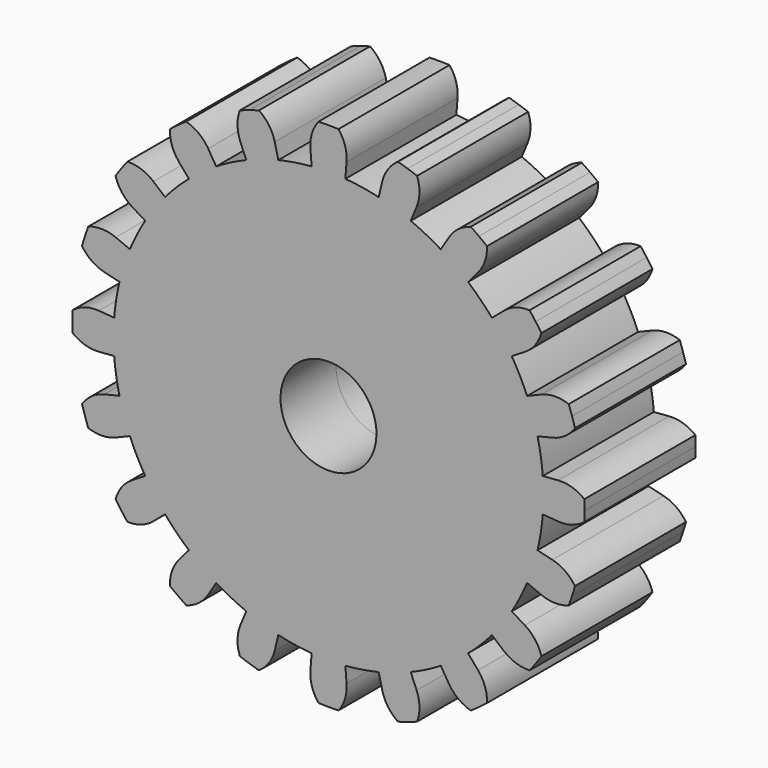
from build123d import *

# Parameters (mm, degrees)
F1_DEPTH = 2.8702


with BuildPart() as f1:
    # F0 (on Front) → F1 (new body, symmetric)
    with BuildSketch(Plane.XZ):
        with BuildLine():
            ThreePointArc((10.5918, 0), (10.5897583297, 0.2079561438), (10.5836341061, 0.4158321166))
            ThreePointArc((10.5836341061, 0.4158321166), (10.0710210825, 0.6845879651), (9.4956376038, 0.7473228868))
            Line((9.4956376038, 0.7473228868), (8.8625950969, 0.697501361))
            ThreePointArc((8.8625950969, 0.697501361), (8.8283785823, 1.0449074634), (8.7805493479, 1.3907023942))
            Line((8.7805493479, 1.3907023942), (1.9599440509, 0.3104246416))
            ThreePointArc((1.9599440509, 0.3104246416), (1.9782578341, 0.1556922681), (1.984375, 0))
            Line((1.984375, 0), (10.5918, 0))
        make_face()
        with BuildLine():
            ThreePointArc((10.5836341061, -0.4158321166), (10.5897583297, -0.2079561438), (10.5918, 0))
            Line((10.5918, 0), (1.984375, 0))
            ThreePointArc((1.984375, 0), (-1.9782578341, -0.1556922681), (1.9599440509, 0.3104246416))
            Line((1.9599440509, 0.3104246416), (8.7805493479, 1.3907023942))
            ThreePointArc((8.7805493479, 1.3907023942), (8.7191811428, 1.7343529627), (8.6443685923, 2.0753292847))
            Line((8.6443685923, 2.0753292847), (9.2618234918, 2.2235670907))
            ThreePointArc((9.2618234918, 2.2235670907), (9.7896595417, 2.46103482), (10.1941333735, 2.8750429569))
            ThreePointArc((10.1941333735, 2.8750429569), (10.135720648, 3.0746372445), (10.0734004093, 3.273046201))
            ThreePointArc((10.0734004093, 3.273046201), (10.007196683, 3.4701933359), (9.9371349918, 3.6660026452))
            ThreePointArc((9.9371349918, 3.6660026452), (9.3665609109, 3.7631985104), (8.7999525472, 3.6450596933))
            Line((8.7999525472, 3.6450596933), (8.213289044, 3.4020557137))
            ThreePointArc((8.213289044, 3.4020557137), (8.0733928153, 3.7218850667), (7.921048, 4.0359755427))
            ThreePointArc((7.921048, 4.0359755427), (7.7564895029, 4.3438428369), (7.5799710611, 4.6450122403))
            Line((7.5799710611, 4.6450122403), (8.1213975655, 4.9767988289))
            ThreePointArc((8.1213975655, 4.9767988289), (8.5500179163, 5.3657543699), (8.8067598396, 5.8844887941))
            ThreePointArc((8.8067598396, 5.8844887941), (8.6895280095, 6.0562637171), (8.568946201, 6.2257038352))
            ThreePointArc((8.568946201, 6.2257038352), (8.4450609006, 6.392743826), (8.3179198685, 6.5573192923))
            ThreePointArc((8.3179198685, 6.5573192923), (7.7452364967, 6.4734409658), (7.2428668223, 6.1859926603))
            Line((7.2428668223, 6.1859926603), (6.7600090342, 5.7735931497))
            ThreePointArc((6.7600090342, 5.7735931497), (6.5281271089, 6.0345386278), (6.2861792847, 6.2861792847))
            ThreePointArc((6.2861792847, 6.2861792847), (6.0345386278, 6.5281271089), (5.7735931497, 6.7600090342))
            Line((5.7735931497, 6.7600090342), (6.1859926603, 7.2428668223))
            ThreePointArc((6.1859926603, 7.2428668223), (6.4734409658, 7.7452364967), (6.5573192923, 8.3179198685))
            ThreePointArc((6.5573192923, 8.3179198685), (6.392743826, 8.4450609006), (6.2257038352, 8.568946201))
            ThreePointArc((6.2257038352, 8.568946201), (6.0562637171, 8.6895280095), (5.8844887941, 8.8067598396))
            ThreePointArc((5.8844887941, 8.8067598396), (5.3657543699, 8.5500179163), (4.9767988289, 8.1213975655))
            Line((4.9767988289, 8.1213975655), (4.6450122403, 7.5799710611))
            ThreePointArc((4.6450122403, 7.5799710611), (4.3438428369, 7.7564895029), (4.0359755427, 7.921048))
            ThreePointArc((4.0359755427, 7.921048), (3.7218850667, 8.0733928153), (3.4020557137, 8.213289044))
            Line((3.4020557137, 8.213289044), (3.6450596933, 8.7999525472))
            ThreePointArc((3.6450596933, 8.7999525472), (3.7631985104, 9.3665609109), (3.6660026452, 9.9371349918))
            ThreePointArc((3.6660026452, 9.9371349918), (3.4701933359, 10.007196683), (3.273046201, 10.0734004093))
            ThreePointArc((3.273046201, 10.0734004093), (3.0746372445, 10.135720648), (2.8750429569, 10.1941333735))
            ThreePointArc((2.8750429569, 10.1941333735), (2.46103482, 9.7896595417), (2.2235670907, 9.2618234918))
            Line((2.2235670907, 9.2618234918), (2.0753292847, 8.6443685923))
            ThreePointArc((2.0753292847, 8.6443685923), (1.7343529627, 8.7191811428), (1.3907023942, 8.7805493479))
            ThreePointArc((1.3907023942, 8.7805493479), (1.0449074634, 8.8283785823), (0.697501361, 8.8625950969))
            Line((0.697501361, 8.8625950969), (0.7473228868, 9.4956376038))
            ThreePointArc((0.7473228868, 9.4956376038), (0.6845879651, 10.0710210825), (0.4158321166, 10.5836341061))
            ThreePointArc((0.4158321166, 10.5836341061), (0.2079561438, 10.5897583297), (0, 10.5918))
            ThreePointArc((0, 10.5918), (-0.2079561438, 10.5897583297), (-0.4158321166, 10.5836341061))
            ThreePointArc((-0.4158321166, 10.5836341061), (-0.6845879651, 10.0710210825), (-0.7473228868, 9.4956376038))
            Line((-0.7473228868, 9.4956376038), (-0.697501361, 8.8625950969))
            ThreePointArc((-0.697501361, 8.8625950969), (-1.0449074634, 8.8283785823), (-1.3907023942, 8.7805493479))
            ThreePointArc((-1.3907023942, 8.7805493479), (-1.7343529627, 8.7191811428), (-2.0753292847, 8.6443685923))
            Line((-2.0753292847, 8.6443685923), (-2.2235670907, 9.2618234918))
            ThreePointArc((-2.2235670907, 9.2618234918), (-2.46103482, 9.7896595417), (-2.8750429569, 10.1941333735))
            ThreePointArc((-2.8750429569, 10.1941333735), (-3.0746372445, 10.135720648), (-3.273046201, 10.0734004093))
            ThreePointArc((-3.273046201, 10.0734004093), (-3.4701933359, 10.007196683), (-3.6660026452, 9.9371349918))
            ThreePointArc((-3.6660026452, 9.9371349918), (-3.7631985104, 9.3665609109), (-3.6450596933, 8.7999525472))
            Line((-3.6450596933, 8.7999525472), (-3.4020557137, 8.213289044))
            ThreePointArc((-3.4020557137, 8.213289044), (-3.7218850667, 8.0733928153), (-4.0359755427, 7.921048))
            ThreePointArc((-4.0359755427, 7.921048), (-4.3438428369, 7.7564895029), (-4.6450122403, 7.5799710611))
            Line((-4.6450122403, 7.5799710611), (-4.9767988289, 8.1213975655))
            ThreePointArc((-4.9767988289, 8.1213975655), (-5.3657543699, 8.5500179163), (-5.8844887941, 8.8067598396))
            ThreePointArc((-5.8844887941, 8.8067598396), (-6.0562637171, 8.6895280095), (-6.2257038352, 8.568946201))
            ThreePointArc((-6.2257038352, 8.568946201), (-6.392743826, 8.4450609006), (-6.5573192923, 8.3179198685))
            ThreePointArc((-6.5573192923, 8.3179198685), (-6.4734409658, 7.7452364967), (-6.1859926603, 7.2428668223))
            Line((-6.1859926603, 7.2428668223), (-5.7735931497, 6.7600090342))
            ThreePointArc((-5.7735931497, 6.7600090342), (-6.0345386278, 6.5281271089), (-6.2861792847, 6.2861792847))
            ThreePointArc((-6.2861792847, 6.2861792847), (-6.5281271089, 6.0345386278), (-6.7600090342, 5.7735931497))
            Line((-6.7600090342, 5.7735931497), (-7.2428668223, 6.1859926603))
            ThreePointArc((-7.2428668223, 6.1859926603), (-7.7452364967, 6.4734409658), (-8.3179198685, 6.5573192923))
            ThreePointArc((-8.3179198685, 6.5573192923), (-8.4450609006, 6.392743826), (-8.568946201, 6.2257038352))
            ThreePointArc((-8.568946201, 6.2257038352), (-8.6895280095, 6.0562637171), (-8.8067598396, 5.8844887941))
            ThreePointArc((-8.8067598396, 5.8844887941), (-8.5500179163, 5.3657543699), (-8.1213975655, 4.9767988289))
            Line((-8.1213975655, 4.9767988289), (-7.5799710611, 4.6450122403))
            ThreePointArc((-7.5799710611, 4.6450122403), (-7.7564895029, 4.3438428369), (-7.921048, 4.0359755427))
            ThreePointArc((-7.921048, 4.0359755427), (-8.0733928153, 3.7218850667), (-8.213289044, 3.4020557137))
            Line((-8.213289044, 3.4020557137), (-8.7999525472, 3.6450596933))
            ThreePointArc((-8.7999525472, 3.6450596933), (-9.3665609109, 3.7631985104), (-9.9371349918, 3.6660026452))
            ThreePointArc((-9.9371349918, 3.6660026452), (-10.007196683, 3.4701933359), (-10.0734004093, 3.273046201))
            ThreePointArc((-10.0734004093, 3.273046201), (-10.135720648, 3.0746372445), (-10.1941333735, 2.8750429569))
            ThreePointArc((-10.1941333735, 2.8750429569), (-9.7896595417, 2.46103482), (-9.2618234918, 2.2235670907))
            Line((-9.2618234918, 2.2235670907), (-8.6443685923, 2.0753292847))
            ThreePointArc((-8.6443685923, 2.0753292847), (-8.7191811428, 1.7343529627), (-8.7805493479, 1.3907023942))
            ThreePointArc((-8.7805493479, 1.3907023942), (-8.8283785823, 1.0449074634), (-8.8625950969, 0.697501361))
            Line((-8.8625950969, 0.697501361), (-9.4956376038, 0.7473228868))
            ThreePointArc((-9.4956376038, 0.7473228868), (-10.0710210825, 0.6845879651), (-10.5836341061, 0.4158321166))
            ThreePointArc((-10.5836341061, 0.4158321166), (-10.5897583297, 0.2079561438), (-10.5918, 0))
            ThreePointArc((-10.5918, 0), (-10.5897583297, -0.2079561438), (-10.5836341061, -0.4158321166))
            ThreePointArc((-10.5836341061, -0.4158321166), (-10.0710210825, -0.6845879651), (-9.4956376038, -0.7473228868))
            Line((-9.4956376038, -0.7473228868), (-8.8625950969, -0.697501361))
            ThreePointArc((-8.8625950969, -0.697501361), (-8.8283785823, -1.0449074634), (-8.7805493479, -1.3907023942))
            ThreePointArc((-8.7805493479, -1.3907023942), (-8.7191811428, -1.7343529627), (-8.6443685923, -2.0753292847))
            Line((-8.6443685923, -2.0753292847), (-9.2618234918, -2.2235670907))
            ThreePointArc((-9.2618234918, -2.2235670907), (-9.7896595417, -2.46103482), (-10.1941333735, -2.8750429569))
            ThreePointArc((-10.1941333735, -2.8750429569), (-10.135720648, -3.0746372445), (-10.0734004093, -3.273046201))
            ThreePointArc((-10.0734004093, -3.273046201), (-10.007196683, -3.4701933359), (-9.9371349918, -3.6660026452))
            ThreePointArc((-9.9371349918, -3.6660026452), (-9.3665609109, -3.7631985104), (-8.7999525472, -3.6450596933))
            Line((-8.7999525472, -3.6450596933), (-8.213289044, -3.4020557137))
            ThreePointArc((-8.213289044, -3.4020557137), (-8.0733928153, -3.7218850667), (-7.921048, -4.0359755427))
            ThreePointArc((-7.921048, -4.0359755427), (-7.7564895029, -4.3438428369), (-7.5799710611, -4.6450122403))
            Line((-7.5799710611, -4.6450122403), (-8.1213975655, -4.9767988289))
            ThreePointArc((-8.1213975655, -4.9767988289), (-8.5500179163, -5.3657543699), (-8.8067598396, -5.8844887941))
            ThreePointArc((-8.8067598396, -5.8844887941), (-8.6895280095, -6.0562637171), (-8.568946201, -6.2257038352))
            ThreePointArc((-8.568946201, -6.2257038352), (-8.4450609006, -6.392743826), (-8.3179198685, -6.5573192923))
            ThreePointArc((-8.3179198685, -6.5573192923), (-7.7452364967, -6.4734409658), (-7.2428668223, -6.1859926603))
            Line((-7.2428668223, -6.1859926603), (-6.7600090342, -5.7735931497))
            ThreePointArc((-6.7600090342, -5.7735931497), (-6.5281271089, -6.0345386278), (-6.2861792847, -6.2861792847))
            ThreePointArc((-6.2861792847, -6.2861792847), (-6.0345386278, -6.5281271089), (-5.7735931497, -6.7600090342))
            Line((-5.7735931497, -6.7600090342), (-6.1859926603, -7.2428668223))
            ThreePointArc((-6.1859926603, -7.2428668223), (-6.4734409658, -7.7452364967), (-6.5573192923, -8.3179198685))
            ThreePointArc((-6.5573192923, -8.3179198685), (-6.392743826, -8.4450609006), (-6.2257038352, -8.568946201))
            ThreePointArc((-6.2257038352, -8.568946201), (-6.0562637171, -8.6895280095), (-5.8844887941, -8.8067598396))
            ThreePointArc((-5.8844887941, -8.8067598396), (-5.3657543699, -8.5500179163), (-4.9767988289, -8.1213975655))
            Line((-4.9767988289, -8.1213975655), (-4.6450122403, -7.5799710611))
            ThreePointArc((-4.6450122403, -7.5799710611), (-4.3438428369, -7.7564895029), (-4.0359755427, -7.921048))
            ThreePointArc((-4.0359755427, -7.921048), (-3.7218850667, -8.0733928153), (-3.4020557137, -8.213289044))
            Line((-3.4020557137, -8.213289044), (-3.6450596933, -8.7999525472))
            ThreePointArc((-3.6450596933, -8.7999525472), (-3.7631985104, -9.3665609109), (-3.6660026452, -9.9371349918))
            ThreePointArc((-3.6660026452, -9.9371349918), (-3.4701933359, -10.007196683), (-3.273046201, -10.0734004093))
            ThreePointArc((-3.273046201, -10.0734004093), (-3.0746372445, -10.135720648), (-2.8750429569, -10.1941333735))
            ThreePointArc((-2.8750429569, -10.1941333735), (-2.46103482, -9.7896595417), (-2.2235670907, -9.2618234918))
            Line((-2.2235670907, -9.2618234918), (-2.0753292847, -8.6443685923))
            ThreePointArc((-2.0753292847, -8.6443685923), (-1.7343529627, -8.7191811428), (-1.3907023942, -8.7805493479))
            ThreePointArc((-1.3907023942, -8.7805493479), (-1.0449074634, -8.8283785823), (-0.697501361, -8.8625950969))
            Line((-0.697501361, -8.8625950969), (-0.7473228868, -9.4956376038))
            ThreePointArc((-0.7473228868, -9.4956376038), (-0.6845879651, -10.0710210825), (-0.4158321166, -10.5836341061))
            ThreePointArc((-0.4158321166, -10.5836341061), (-0.2079561438, -10.5897583297), (0, -10.5918))
            ThreePointArc((0, -10.5918), (0.2079561438, -10.5897583297), (0.4158321166, -10.5836341061))
            ThreePointArc((0.4158321166, -10.5836341061), (0.6845879651, -10.0710210825), (0.7473228868, -9.4956376038))
            Line((0.7473228868, -9.4956376038), (0.697501361, -8.8625950969))
            ThreePointArc((0.697501361, -8.8625950969), (1.0449074634, -8.8283785823), (1.3907023942, -8.7805493479))
            ThreePointArc((1.3907023942, -8.7805493479), (1.7343529627, -8.7191811428), (2.0753292847, -8.6443685923))
            Line((2.0753292847, -8.6443685923), (2.2235670907, -9.2618234918))
            ThreePointArc((2.2235670907, -9.2618234918), (2.46103482, -9.7896595417), (2.8750429569, -10.1941333735))
            ThreePointArc((2.8750429569, -10.1941333735), (3.0746372445, -10.135720648), (3.273046201, -10.0734004093))
            ThreePointArc((3.273046201, -10.0734004093), (3.4701933359, -10.007196683), (3.6660026452, -9.9371349918))
            ThreePointArc((3.6660026452, -9.9371349918), (3.7631985104, -9.3665609109), (3.6450596933, -8.7999525472))
            Line((3.6450596933, -8.7999525472), (3.4020557137, -8.213289044))
            ThreePointArc((3.4020557137, -8.213289044), (3.7218850667, -8.0733928153), (4.0359755427, -7.921048))
            ThreePointArc((4.0359755427, -7.921048), (4.3438428369, -7.7564895029), (4.6450122403, -7.5799710611))
            Line((4.6450122403, -7.5799710611), (4.9767988289, -8.1213975655))
            ThreePointArc((4.9767988289, -8.1213975655), (5.3657543699, -8.5500179163), (5.8844887941, -8.8067598396))
            ThreePointArc((5.8844887941, -8.8067598396), (6.0562637171, -8.6895280095), (6.2257038352, -8.568946201))
            ThreePointArc((6.2257038352, -8.568946201), (6.392743826, -8.4450609006), (6.5573192923, -8.3179198685))
            ThreePointArc((6.5573192923, -8.3179198685), (6.4734409658, -7.7452364967), (6.1859926603, -7.2428668223))
            Line((6.1859926603, -7.2428668223), (5.7735931497, -6.7600090342))
            ThreePointArc((5.7735931497, -6.7600090342), (6.0345386278, -6.5281271089), (6.2861792847, -6.2861792847))
            ThreePointArc((6.2861792847, -6.2861792847), (6.5281271089, -6.0345386278), (6.7600090342, -5.7735931497))
            Line((6.7600090342, -5.7735931497), (7.2428668223, -6.1859926603))
            ThreePointArc((7.2428668223, -6.1859926603), (7.7452364967, -6.4734409658), (8.3179198685, -6.5573192923))
            ThreePointArc((8.3179198685, -6.5573192923), (8.4450609006, -6.392743826), (8.568946201, -6.2257038352))
            ThreePointArc((8.568946201, -6.2257038352), (8.6895280095, -6.0562637171), (8.8067598396, -5.8844887941))
            ThreePointArc((8.8067598396, -5.8844887941), (8.5500179163, -5.3657543699), (8.1213975655, -4.9767988289))
            Line((8.1213975655, -4.9767988289), (7.5799710611, -4.6450122403))
            ThreePointArc((7.5799710611, -4.6450122403), (7.7564895029, -4.3438428369), (7.921048, -4.0359755427))
            ThreePointArc((7.921048, -4.0359755427), (8.0733928153, -3.7218850667), (8.213289044, -3.4020557137))
            Line((8.213289044, -3.4020557137), (8.7999525472, -3.6450596933))
            ThreePointArc((8.7999525472, -3.6450596933), (9.3665609109, -3.7631985104), (9.9371349918, -3.6660026452))
            ThreePointArc((9.9371349918, -3.6660026452), (10.007196683, -3.4701933359), (10.0734004093, -3.273046201))
            ThreePointArc((10.0734004093, -3.273046201), (10.135720648, -3.0746372445), (10.1941333735, -2.8750429569))
            ThreePointArc((10.1941333735, -2.8750429569), (9.7896595417, -2.46103482), (9.2618234918, -2.2235670907))
            Line((9.2618234918, -2.2235670907), (8.6443685923, -2.0753292847))
            ThreePointArc((8.6443685923, -2.0753292847), (8.7191811428, -1.7343529627), (8.7805493479, -1.3907023942))
            ThreePointArc((8.7805493479, -1.3907023942), (8.8283785823, -1.0449074634), (8.8625950969, -0.697501361))
            Line((8.8625950969, -0.697501361), (9.4956376038, -0.7473228868))
            ThreePointArc((9.4956376038, -0.7473228868), (10.0710210825, -0.6845879651), (10.5836341061, -0.4158321166))
        make_face()
    extrude(amount=F1_DEPTH, both=True)


solid = f1.part
